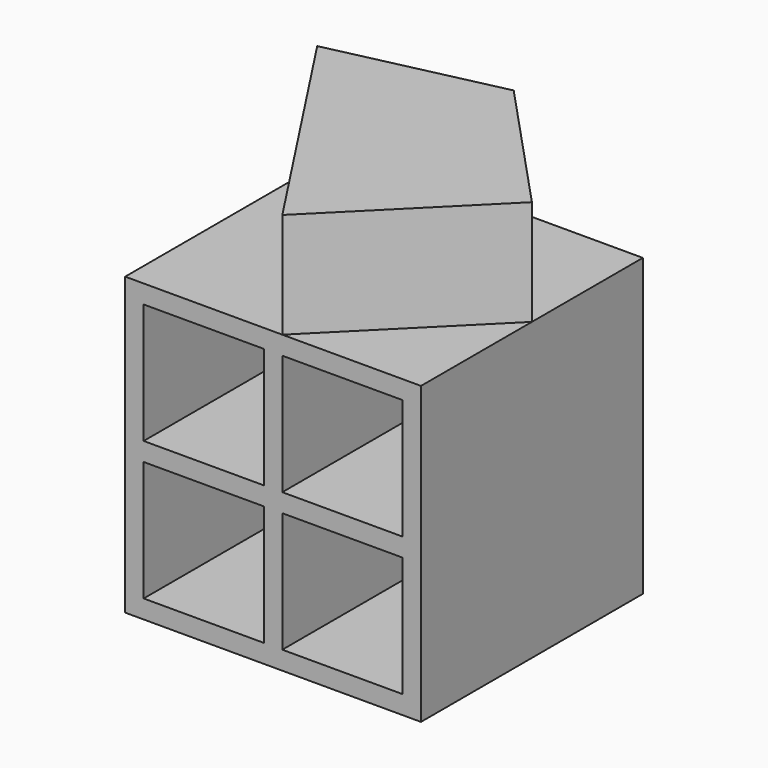
from build123d import *

# Parameters (mm, degrees)
F0_W     = 160
F0_H     = 160
F0_W_2   = 65
F0_H_2   = 10
F0_W_3   = 10
F0_H_3   = 65
F1_DEPTH = 150
F2_W     = 10
F2_H     = 160
F3_DEPTH = 150
F5_DEPTH = 57


with BuildPart() as f1:
    # F0 (on Front) → F1 (new body)
    with BuildSketch(Plane.XZ):
        with Locations((-111.5596954525, 50.3307304141)):
            Rectangle(F0_W, F0_H)
        Polygon((-181.5596954525, 55.3307304141), (-181.5596954525, 120.3307304141), (-116.5596954525, 120.3307304141), (-106.5596954525, 120.3307304141), (-41.5596954525, 120.3307304141), (-41.5596954525, 55.3307304141), (-41.5596954525, 45.3307304141), (-41.5596954525, -19.6692695859), (-106.5596954525, -19.6692695859), (-116.5596954525, -19.6692695859), (-181.5596954525, -19.6692695859), (-181.5596954525, 45.3307304141), align=None, mode=Mode.SUBTRACT)
        with Locations((-149.0596954525, 50.3307304141)):
            Rectangle(F0_W_2, F0_H_2)
        with Locations((-111.5596954525, 87.8307304141)):
            Rectangle(F0_W_3, F0_H_3)
        with Locations((-74.0596954525, 50.3307304141)):
            Rectangle(F0_W_2, F0_H_2)
        with Locations((-111.5596954525, 12.8307304141)):
            Rectangle(F0_W_3, F0_H_3)
        with Locations((-111.5596954525, 50.3307304141)):
            Rectangle(F0_W_3, F0_H_2)
    extrude(amount=F1_DEPTH)

    # F2 (on face) → F3 (join)
    with BuildSketch(Plane.YZ.offset(-31.5596954525)):
        with Locations((-5, 50.3307304141)):
            Rectangle(F2_W, F2_H)
    extrude(amount=-F3_DEPTH)

    # F4 (on face) → F5 (join)
    with BuildSketch(Plane.XY.offset(130.3307304141)):
        Polygon((-101.4029532671, 0), (-191.5596954525, -20.1587285846), (-106.5589338541, -150), (-31.5596954525, -75), align=None)
    extrude(amount=F5_DEPTH)


solid = f1.part
